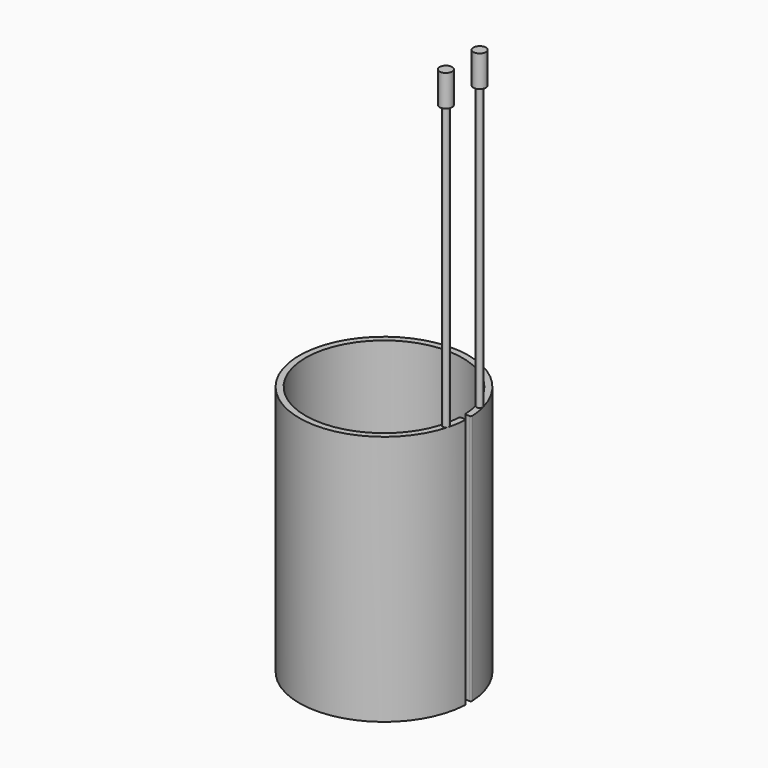
from build123d import *

# Parameters (mm, degrees)
F1_DEPTH = 40
F2_R     = 0.2
F3_R     = 0.5
F4_DEPTH = 50
F5_R     = 1
F6_DEPTH = 5
F7_R     = 1
F8_DEPTH = 5


with BuildPart() as f1:
    # F0 (on Top) → F1 (new body)
    with BuildSketch(Plane.XY):
        with BuildLine():
            ThreePointArc((12.489996, -0.5), (-12.5, 0), (12.489996, 0.5))
            Line((12.489996, 0.5), (13.490738, 0.5))
            ThreePointArc((13.490738, 0.5), (-13.5, 0), (13.490738, -0.5))
            Line((13.490738, -0.5), (12.489996, -0.5))
        make_face()
    extrude(amount=F1_DEPTH)

    # F2
    f2_edges = [f1.edges().sort_by_distance(p)[0] for p in [
        (13.490738, 0.5, 20),
        (12.489996, 0.5, 20),
        (12.489996, -0.5, 20),
        (13.490738, -0.5, 20),
    ]]
    fillet(f2_edges, radius=F2_R)

    # F3 (on face) → F4 (join)
    with BuildSketch(Plane.XY.offset(40)):
        with Locations((12.557036, 3.364648)):
            Circle(F3_R)
        with Locations((12.557036, -3.364648)):
            Circle(F3_R)
    extrude(amount=F4_DEPTH)

    # F5 (on face) → F6 (join)
    with BuildSketch(Plane.XY.offset(90)):
        with Locations((12.557036, -3.364648)):
            Circle(F5_R)
    extrude(amount=-F6_DEPTH)

    # F7 (on face) → F8 (join)
    with BuildSketch(Plane.XY.offset(90)):
        with Locations((12.557036, 3.364648)):
            Circle(F7_R)
    extrude(amount=-F8_DEPTH)


solid = f1.part
